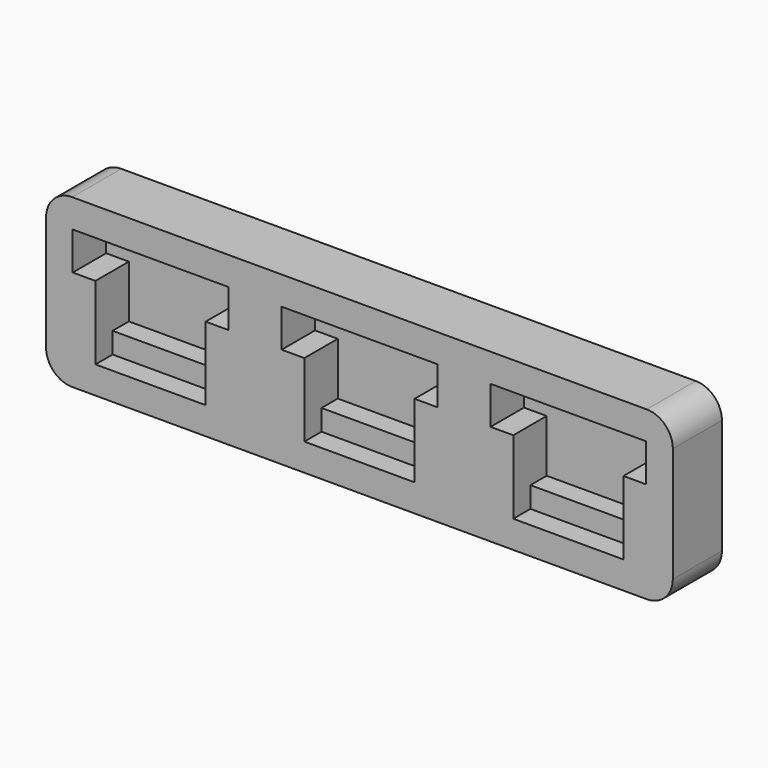
from build123d import *

# Parameters (mm, degrees)
F0_W     = 240
F0_H     = 32
F1_DEPTH = 11.75
F4_DEPTH = 8
F5_W     = 21.1
F5_H     = 4
F6_DEPTH = 3.9
F7_W     = 130
F7_H     = 80
F8_DEPTH = 30
F9_R     = 5


with BuildPart() as f1:
    # F0 (on Front) → F1 (new body)
    with BuildSketch(Plane.XZ):
        Rectangle(F0_W, F0_H)
    extrude(amount=F1_DEPTH)

    # F3 (on face) → F4 (cut)
    with BuildSketch(Plane.XZ.offset(11.75)):
        Polygon((114.9, 10.58), (85.1, 10.58), (85.1, 3.325), (89.45, 3.325), (89.45, -10.75), (110.55, -10.75), (110.55, 3.325), (114.9, 3.325), align=None)
        Polygon((74.9, 10.58), (45.1, 10.58), (45.1, 3.325), (49.45, 3.325), (49.45, -10.75), (70.55, -10.75), (70.55, 3.325), (74.9, 3.325), align=None)
        Polygon((34.9, 10.58), (5.1, 10.58), (5.1, 3.325), (9.45, 3.325), (9.45, -10.75), (30.55, -10.75), (30.55, 3.325), (34.9, 3.325), align=None)
        Polygon((-5.1, 10.58), (-34.9, 10.58), (-34.9, 3.325), (-30.55, 3.325), (-30.55, -10.75), (-9.45, -10.75), (-9.45, 3.325), (-5.1, 3.325), align=None)
        Polygon((-45.1, 10.58), (-74.9, 10.58), (-74.9, 3.325), (-70.55, 3.325), (-70.55, -10.75), (-49.45, -10.75), (-49.45, 3.325), (-45.1, 3.325), align=None)
        Polygon((-85.1, 10.58), (-114.9, 10.58), (-114.9, 3.325), (-110.55, 3.325), (-110.55, -10.75), (-89.45, -10.75), (-89.45, 3.325), (-85.1, 3.325), align=None)
    extrude(amount=-F4_DEPTH, mode=Mode.SUBTRACT)

    # F5 (on face) → F6 (join)
    with BuildSketch(Plane.XZ.offset(3.75)):
        with Locations((100, -8.75)):
            Rectangle(F5_W, F5_H)
        with Locations((60, -8.75)):
            Rectangle(F5_W, F5_H)
        with Locations((20, -8.75)):
            Rectangle(F5_W, F5_H)
        with Locations((-20, -8.75)):
            Rectangle(F5_W, F5_H)
        with Locations((-60, -8.75)):
            Rectangle(F5_W, F5_H)
        with Locations((-100, -8.75)):
            Rectangle(F5_W, F5_H)
    extrude(amount=F6_DEPTH)

    # F7 (on Front) → F8 (cut)
    with BuildSketch(Plane.XZ):
        with Locations((-65, 0.10457)):
            Rectangle(F7_W, F7_H)
    extrude(amount=F8_DEPTH, mode=Mode.SUBTRACT)

    # F9
    f9_edges = [f1.edges().sort_by_distance(p)[0] for p in [
        (120, -5.875, -16),
        (120, -5.875, 16),
        (0, -5.875, -16),
        (0, -5.875, 16),
    ]]
    fillet(f9_edges, radius=F9_R)


solid = f1.part
